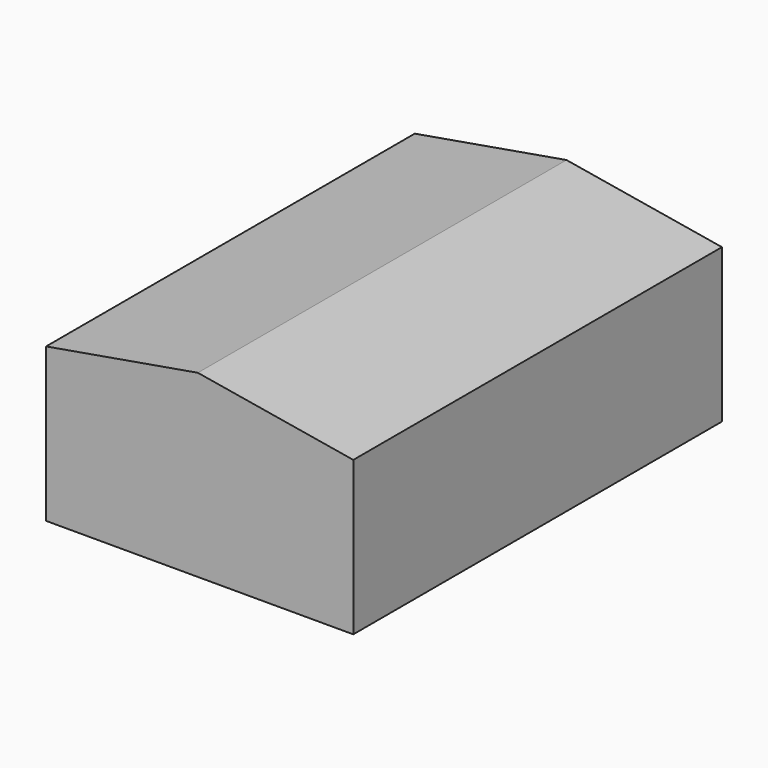
from build123d import *

# Parameters (mm, degrees)
F1_DEPTH = 1200


with BuildPart() as f1:
    # F0 (on Front) → F1 (new body)
    with BuildSketch(Plane.XZ):
        Polygon((117.767222, 265.515238), (-277.481471, 197.418033), (122.518529, 197.418033), (522.518529, 197.418033), align=None)
        Polygon((122.518529, 197.418033), (-277.481471, 197.418033), (-277.481471, -202.581967), (522.518529, -202.581967), (522.518529, 197.418033), align=None)
    extrude(amount=F1_DEPTH)


solid = f1.part
